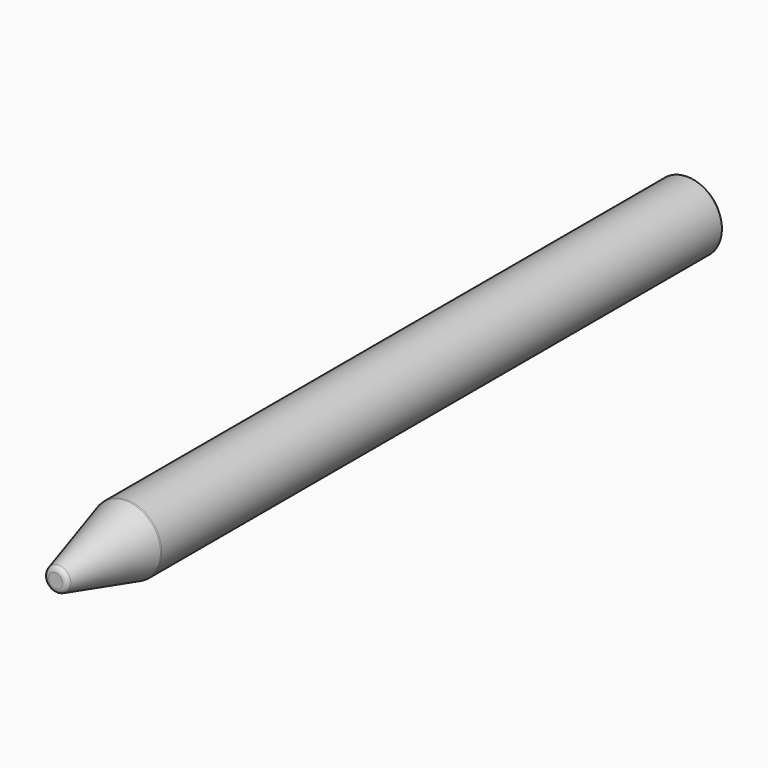
from build123d import *

# Parameters (mm, degrees)
F2_R     = 1.524
F4_D     = 7.9375
F4_DEPTH = 23.8125
F4_TIP   = 2.3846655818
F5_SIZE  = 1.524


with BuildPart() as f1:
    # F0 (on Right) → F1 (revolve)
    with BuildSketch(Plane.YZ):
        Polygon((-228.6, 0), (0, 0), (0, 10), (-203.1287532383, 10), (-228.6, 3.175), align=None)
    revolve(axis=Axis((0, -114.3, 0), (0, -1, 0)))

    # F2
    f2_edges = [f1.edges().sort_by_distance(p)[0] for p in [
        (0, -203.128753, -10),
        (0, -228.6, -3.175),
    ]]
    fillet(f2_edges, radius=F2_R)

    # F4
    with Locations(Plane(origin=(0, 0, 0), x_dir=(-1, 0, 0), z_dir=(0, 1, 0))):
        with Locations((0, 0)):
            Hole(F4_D / 2, depth=F4_DEPTH)
            with Locations((0, 0, -(F4_DEPTH + F4_TIP / 2))):  # 118° drill point
                Cone(0, F4_D / 2, F4_TIP, mode=Mode.SUBTRACT)

    # F5
    f5_edges = [f1.edges().sort_by_distance(p)[0] for p in [
        (0, 0, -10),
    ]]
    chamfer(f5_edges, length=F5_SIZE)


solid = f1.part
